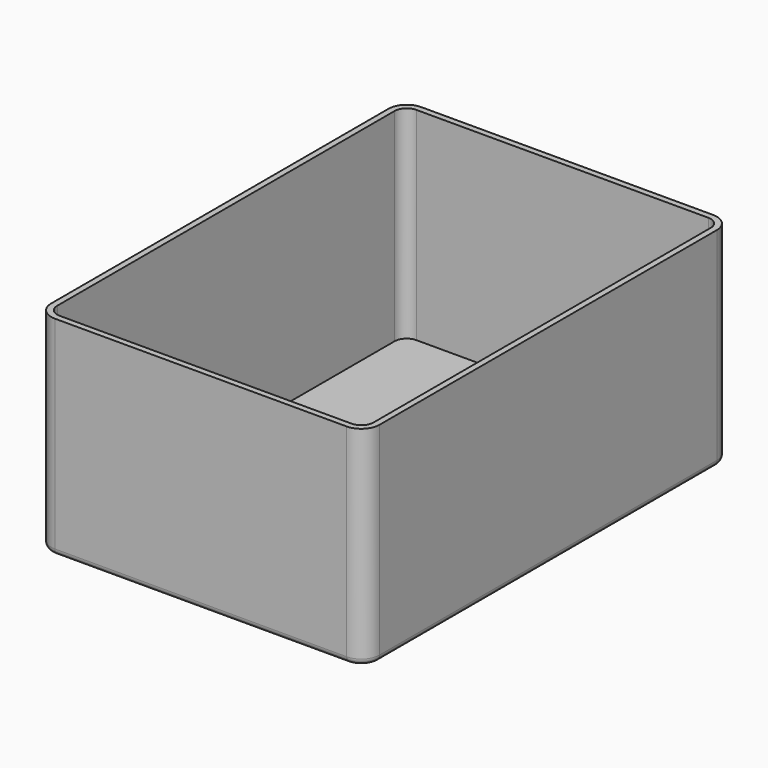
from build123d import *

# Parameters (mm, degrees)
PAD_DEPTH   = 50
THICKNESS_T = 1.5


with BuildPart() as part:
    # Sketch → Pad (new body)
    with BuildSketch(Plane.XY):
        with BuildLine():
            ThreePointArc((3, 0), (0.87868, -0.87868), (0, -3))
            Line((0, -107), (0, -3))
            ThreePointArc((0, -107), (0.87868, -109.12132), (3, -110))
            Line((75, -110), (3, -110))
            ThreePointArc((75, -110), (77.12132, -109.12132), (78, -107))
            Line((78, -3), (78, -107))
            ThreePointArc((78, -3), (77.12132, -0.87868), (75, 0))
            Line((3, 0), (75, 0))
        make_face()
    extrude(amount=PAD_DEPTH)

    # Thickness
    thickness_openings = [part.faces().sort_by_distance(p)[0] for p in [
        (39, -55, 50),
    ]]
    offset(amount=THICKNESS_T, openings=thickness_openings)


solid = part.part
